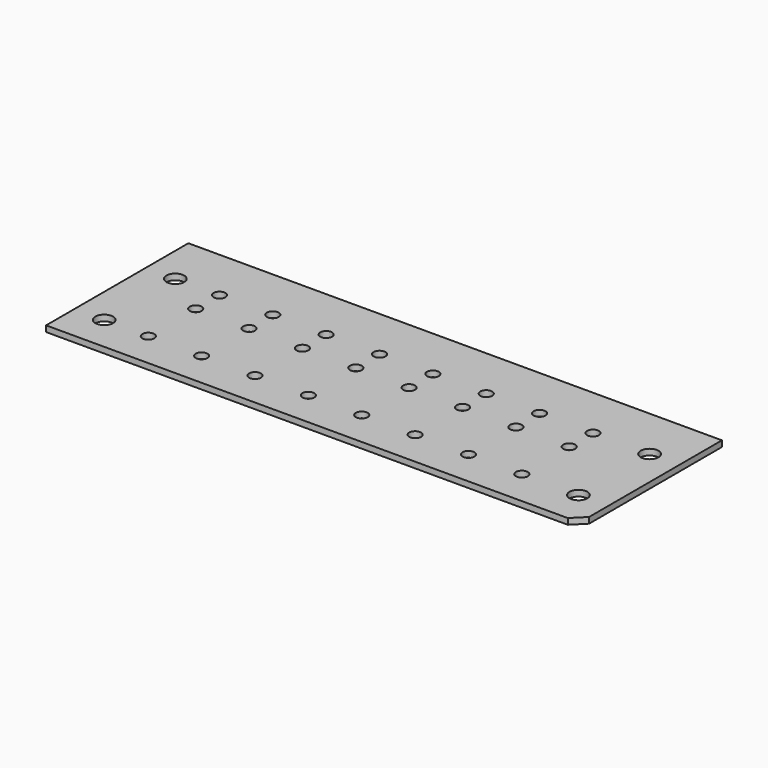
from build123d import *

# Parameters (mm, degrees)
F0_W     = 90
F0_H     = 30
F1_DEPTH = 1
F2_R     = 1
F3_DEPTH = 1
F4_SIZE  = 2
F5_R     = 1.5
F6_DEPTH = 1


with BuildPart() as f1:
    # F0 (on Top) → F1 (new body)
    with BuildSketch(Plane.XY):
        with Locations((45, 15)):
            Rectangle(F0_W, F0_H)
    extrude(amount=F1_DEPTH)

    # F2 (on Top) → F3 (cut, through all)
    with BuildSketch(Plane.XY):
        with Locations((12.444126, 6)):
            Circle(F2_R)
        with Locations((12.444126, 21)):
            Circle(F2_R)
        with Locations((12.444126, 16)):
            Circle(F2_R)
        with Locations((21.444126, 21)):
            Circle(F2_R)
        with Locations((21.444126, 16)):
            Circle(F2_R)
        with Locations((21.444126, 6)):
            Circle(F2_R)
        with Locations((30.444126, 21)):
            Circle(F2_R)
        with Locations((30.444126, 16)):
            Circle(F2_R)
        with Locations((30.444126, 6)):
            Circle(F2_R)
        with Locations((39.444126, 21)):
            Circle(F2_R)
        with Locations((39.444126, 16)):
            Circle(F2_R)
        with Locations((39.444126, 6)):
            Circle(F2_R)
        with Locations((48.444126, 21)):
            Circle(F2_R)
        with Locations((48.444126, 16)):
            Circle(F2_R)
        with Locations((48.444126, 6)):
            Circle(F2_R)
        with Locations((57.444126, 21)):
            Circle(F2_R)
        with Locations((57.444126, 16)):
            Circle(F2_R)
        with Locations((57.444126, 6)):
            Circle(F2_R)
        with Locations((66.444126, 21)):
            Circle(F2_R)
        with Locations((66.444126, 16)):
            Circle(F2_R)
        with Locations((66.444126, 6)):
            Circle(F2_R)
        with Locations((75.444126, 21)):
            Circle(F2_R)
        with Locations((75.444126, 16)):
            Circle(F2_R)
        with Locations((75.444126, 6)):
            Circle(F2_R)
    extrude(amount=F3_DEPTH, mode=Mode.SUBTRACT)

    # F4
    f4_edges = [f1.edges().sort_by_distance(p)[0] for p in [
        (90, 0, 0.5),
    ]]
    chamfer(f4_edges, length=F4_SIZE)

    # F5 (on Top) → F6 (cut, through all)
    with BuildSketch(Plane.XY):
        with Locations((5, 6)):
            Circle(F5_R)
        with Locations((5, 21)):
            Circle(F5_R)
        with Locations((85, 21)):
            Circle(F5_R)
        with Locations((85, 6)):
            Circle(F5_R)
    extrude(amount=F6_DEPTH, mode=Mode.SUBTRACT)


solid = f1.part
